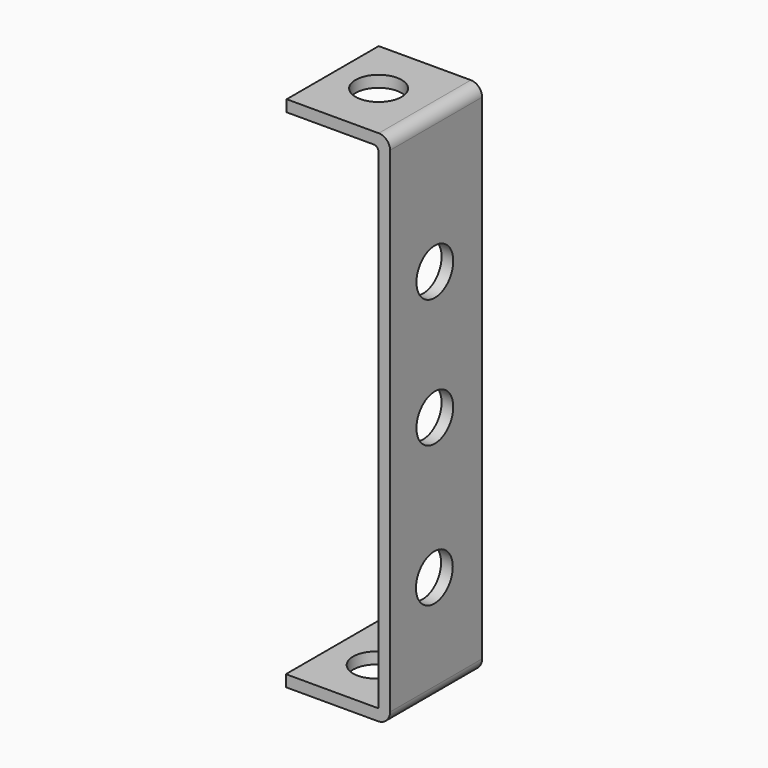
from build123d import *

# Parameters (mm, degrees)
CYLINDER030_R               = 2
CYLINDER030_DEPTH           = 10
CYLINDER030_PITCH_ANGLE     = 90
CYLINDER030_PLACEMENT_ANGLE = 7e-06
CYLINDER031_R               = 2
CYLINDER031_DEPTH           = 10
CYLINDER031_PITCH_ANGLE     = 90
CYLINDER031_PLACEMENT_ANGLE = 7e-06
CYLINDER026_R               = 2
CYLINDER026_DEPTH           = 2
CYLINDER026_ROLL_ANGLE      = -88.507054
CYLINDER026_PITCH_ANGLE     = -87.01751
CYLINDER026_PLACEMENT_ANGLE = -92.244015
CYLINDER028_R               = 2
CYLINDER028_DEPTH           = 2
CYLINDER028_PLACEMENT_ANGLE = 90.00001
CYLINDER029_R               = 2
CYLINDER029_DEPTH           = 2
CYLINDER029_ROLL_ANGLE      = 90
CYLINDER027_R               = 2
CYLINDER027_DEPTH           = 2
CYLINDER027_ROLL_ANGLE      = 90
CYLINDER025_R               = 2
CYLINDER025_DEPTH           = 2
CYLINDER025_ROLL_ANGLE      = -88.507054
CYLINDER025_PITCH_ANGLE     = -87.01751
CYLINDER025_PLACEMENT_ANGLE = -92.244015
PAD006_DEPTH                = 10
CUT025_PITCH_ANGLE          = 90
CUT025_PLACEMENT_ANGLE      = 90


with BuildPart() as cylinder030:
    # Cylinder030 → Cylinder030 (new body)
    with BuildSketch(Plane.XY):
        Circle(CYLINDER030_R)
    extrude(amount=CYLINDER030_DEPTH)


with BuildPart() as cylinder030_1:
    # Cylinder030 pitch: moved
    add(cylinder030.part.rotate(Axis((0, 0, 0), (0, 1, 0)), CYLINDER030_PITCH_ANGLE))


with BuildPart() as cylinder030_2:
    # Cylinder030 placement: moved
    add(cylinder030_1.part.moved(Location((15.49, 3.9, 4.87))).rotate(Axis((15.49, 3.9, 4.87), (0, 0, 1)), CYLINDER030_PLACEMENT_ANGLE))


with BuildPart() as cylinder031:
    # Cylinder031 → Cylinder031 (new body)
    with BuildSketch(Plane.XY):
        Circle(CYLINDER031_R)
    extrude(amount=CYLINDER031_DEPTH)


with BuildPart() as cylinder031_1:
    # Cylinder031 pitch: moved
    add(cylinder031.part.rotate(Axis((0, 0, 0), (0, 1, 0)), CYLINDER031_PITCH_ANGLE))


with BuildPart() as cylinder031_2:
    # Cylinder031 placement: moved
    add(cylinder031_1.part.moved(Location((-28.4147, 3.9, 5.14))).rotate(Axis((-28.4147, 3.9, 5.14), (0, 0, 1)), CYLINDER031_PLACEMENT_ANGLE))


with BuildPart() as cylinder026:
    # Cylinder026 → Cylinder026 (new body)
    with BuildSketch(Plane.XY):
        Circle(CYLINDER026_R)
    extrude(amount=CYLINDER026_DEPTH)


with BuildPart() as cylinder026_1:
    # Cylinder026 roll: moved
    add(cylinder026.part.rotate(Axis((0, 0, 0), (1, 0, 0)), CYLINDER026_ROLL_ANGLE))


with BuildPart() as cylinder026_2:
    # Cylinder026 pitch: moved
    add(cylinder026_1.part.rotate(Axis((0, 0, 0), (0, 1, 0)), CYLINDER026_PITCH_ANGLE))


with BuildPart() as cylinder026_3:
    # Cylinder026 placement: moved
    add(cylinder026_2.part.moved(Location((-26, 5.29, 4.9))).rotate(Axis((-26, 5.29, 4.9), (0, 0, 1)), CYLINDER026_PLACEMENT_ANGLE))


with BuildPart() as cylinder028:
    # Cylinder028 → Cylinder028 (new body)
    with BuildSketch(Plane.XY):
        Circle(CYLINDER028_R)
    extrude(amount=CYLINDER028_DEPTH)


with BuildPart() as cylinder028_1:
    # Cylinder028 placement: moved
    add(cylinder028.part.moved(Location((-11.1555, 0, 4.86401))).rotate(Axis((-11.1555, 0, 4.86401), (1, 0, 0)), CYLINDER028_PLACEMENT_ANGLE))


with BuildPart() as cylinder029:
    # Cylinder029 → Cylinder029 (new body)
    with BuildSketch(Plane.XY):
        Circle(CYLINDER029_R)
    extrude(amount=CYLINDER029_DEPTH)


with BuildPart() as cylinder029_1:
    # Cylinder029 roll: moved
    add(cylinder029.part.rotate(Axis((0, 0, 0), (1, 0, 0)), CYLINDER029_ROLL_ANGLE))


with BuildPart() as cylinder029_2:
    # Cylinder029 placement: moved
    add(cylinder029_1.part.moved(Location((0, 0, 4.86401))))


with BuildPart() as cylinder027:
    # Cylinder027 → Cylinder027 (new body)
    with BuildSketch(Plane.XY):
        Circle(CYLINDER027_R)
    extrude(amount=CYLINDER027_DEPTH)


with BuildPart() as cylinder027_1:
    # Cylinder027 roll: moved
    add(cylinder027.part.rotate(Axis((0, 0, 0), (1, 0, 0)), CYLINDER027_ROLL_ANGLE))


with BuildPart() as cylinder027_2:
    # Cylinder027 placement: moved
    add(cylinder027_1.part.moved(Location((12.2129, 0, 4.81114))))


with BuildPart() as cylinder025:
    # Cylinder025 → Cylinder025 (new body)
    with BuildSketch(Plane.XY):
        Circle(CYLINDER025_R)
    extrude(amount=CYLINDER025_DEPTH)


with BuildPart() as cylinder025_1:
    # Cylinder025 roll: moved
    add(cylinder025.part.rotate(Axis((0, 0, 0), (1, 0, 0)), CYLINDER025_ROLL_ANGLE))


with BuildPart() as cylinder025_2:
    # Cylinder025 pitch: moved
    add(cylinder025_1.part.rotate(Axis((0, 0, 0), (0, 1, 0)), CYLINDER025_PITCH_ANGLE))


with BuildPart() as cylinder025_3:
    # Cylinder025 placement: moved
    add(cylinder025_2.part.moved(Location((25, 5.38, 4.9))).rotate(Axis((25, 5.38, 4.9), (0, 0, 1)), CYLINDER025_PLACEMENT_ANGLE))


with BuildPart() as cut025:
    # Sketch007 → Pad006 (new body)
    with BuildSketch(Plane.XY):
        with BuildLine():
            Line((20.546084, -1.208272), (-22.415471, -1.208272))
            ThreePointArc((-23.400725, -0.223018), (-23.112151, -0.919698), (-22.415471, -1.208272))
            Line((-23.400725, 7.776982), (-23.400725, -0.223018))
            Line((-23.400725, 7.776982), (-22.400725, 7.776982))
            Line((-22.400725, 7.776982), (-22.400725, 0.197829))
            ThreePointArc((-22.400725, 0.197829), (-22.286166, -0.07874), (-22.009596, -0.193299))
            Line((-22.009596, -0.193299), (20.555186, -0.193299))
            ThreePointArc((20.555186, -0.193299), (20.586324, -0.180401), (20.599222, -0.149263))
            Line((20.599222, 7.844865), (20.599222, -0.149263))
            Line((21.599222, 7.844865), (20.599222, 7.844865))
            Line((21.599222, 7.844865), (21.599222, -0.155135))
            ThreePointArc((20.546084, -1.208272), (21.290765, -0.899815), (21.599222, -0.155135))
        make_face()
    extrude(amount=PAD006_DEPTH)

    # Cut005: cut Cylinder025
    add(cylinder025_3.part, mode=Mode.SUBTRACT)

    # Cut006: cut Cylinder027
    add(cylinder027_2.part, mode=Mode.SUBTRACT)

    # Cut007: cut Cylinder029
    add(cylinder029_2.part, mode=Mode.SUBTRACT)

    # Cut008: cut Cylinder028
    add(cylinder028_1.part, mode=Mode.SUBTRACT)

    # Cut009: cut Cylinder026
    add(cylinder026_3.part, mode=Mode.SUBTRACT)

    # Cut018: cut Cylinder031
    add(cylinder031_2.part, mode=Mode.SUBTRACT)

    # Cut025: cut Cylinder030
    add(cylinder030_2.part, mode=Mode.SUBTRACT)


with BuildPart() as cut025_1:
    # Cut025 pitch: moved
    add(cut025.part.rotate(Axis((0, 0, 0), (0, 1, 0)), CUT025_PITCH_ANGLE))


with BuildPart() as cut025_2:
    # Cut025 placement: moved
    add(cut025_1.part.moved(Location((66.5, -61.1, 26))).rotate(Axis((66.5, -61.1, 26), (0, 0, 1)), CUT025_PLACEMENT_ANGLE))


solid = cut025_2.part
